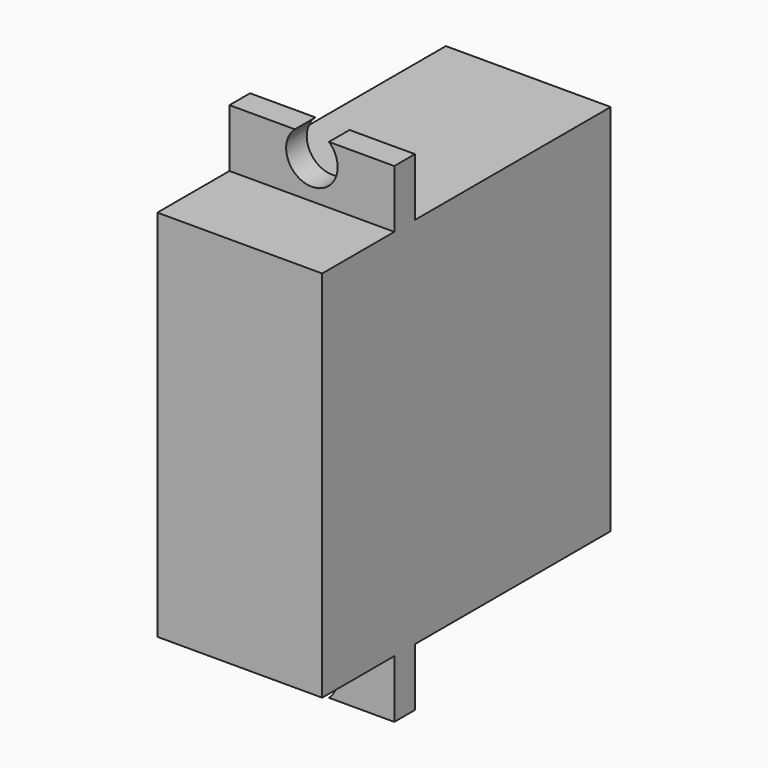
from build123d import *

# Parameters (mm, degrees)
F0_W     = 12.8
F0_H     = 29
F1_DEPTH = 9
F2_W     = 12.8
F2_H     = 38
F3_DEPTH = 2
F4_W     = 12.8
F4_H     = 29
F5_DEPTH = 19
F7_D     = 4


with BuildPart() as f1:
    # F0 (on Front) → F1 (new body)
    with BuildSketch(Plane.XZ):
        Rectangle(F0_W, F0_H)
    extrude(amount=F1_DEPTH)

    # F2 (on face) → F3 (join)
    with BuildSketch(Plane(origin=(0, 0, 0), x_dir=(-1, 0, 0), z_dir=(0, 1, 0))):
        Rectangle(F2_W, F2_H)
    extrude(amount=-F3_DEPTH)

    # F4 (on face) → F5 (join)
    with BuildSketch(Plane(origin=(0, 0, 0), x_dir=(-1, 0, 0), z_dir=(0, 1, 0))):
        Rectangle(F4_W, F4_H)
    extrude(amount=F5_DEPTH)

    # F7 (through all)
    with Locations(Plane.XZ.offset(2)):
        with Locations((0, -17.5), (0, 17.5)):
            Hole(F7_D / 2)


solid = f1.part
